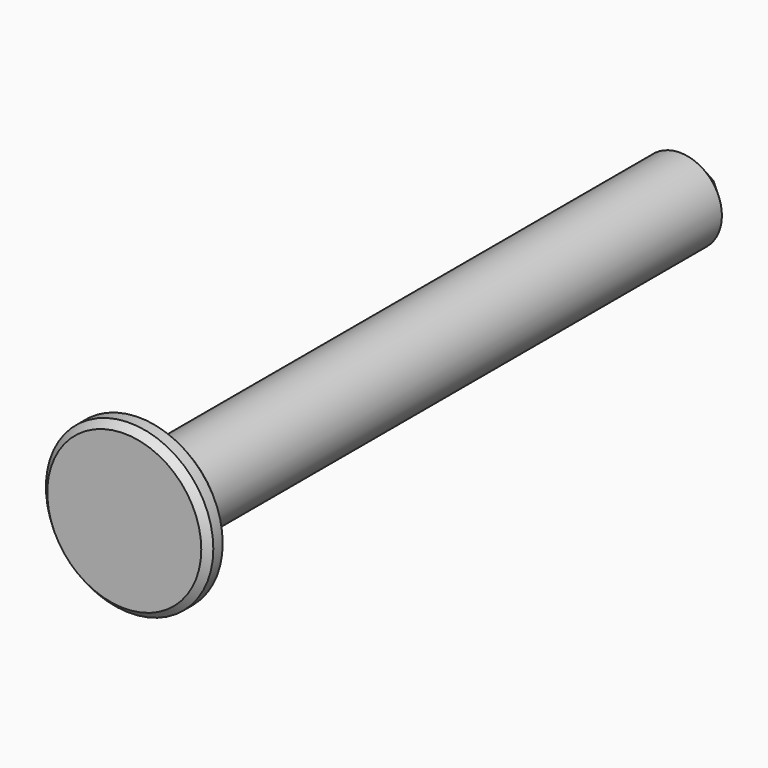
from build123d import *

# Parameters (mm, degrees)
F0_R     = 1.27
F1_DEPTH = 20.32
F2_R     = 2.54
F2_R_2   = 1.27
F3_DEPTH = 0.762
F4_SIZE  = 0.2032


with BuildPart() as f1:
    # F0 (on Front) → F1 (new body)
    with BuildSketch(Plane.XZ):
        Circle(F0_R)
    extrude(amount=F1_DEPTH)

    # F5 (on Top) → F6 (revolve)
    with BuildSketch(Plane.XY):
        Polygon((0, 1.27), (0, 0), (1.27, 0), align=None)
    revolve(axis=Axis((0, 0.635, 0), (0, 1, 0)))


with BuildPart() as f3:
    # F2 (on face) → F3 (new body)
    with BuildSketch(Plane.XZ.offset(20.32)):
        Circle(F2_R)
        Circle(F2_R_2, mode=Mode.SUBTRACT)
        Circle(F2_R_2)
    extrude(amount=F3_DEPTH)

    # F4
    f4_edges = [f3.edges().sort_by_distance(p)[0] for p in [
        (-2.54, -21.082, 0),
        (-2.54, -20.32, 0),
    ]]
    chamfer(f4_edges, length=F4_SIZE)


solid = Compound([f1.part, f3.part])
